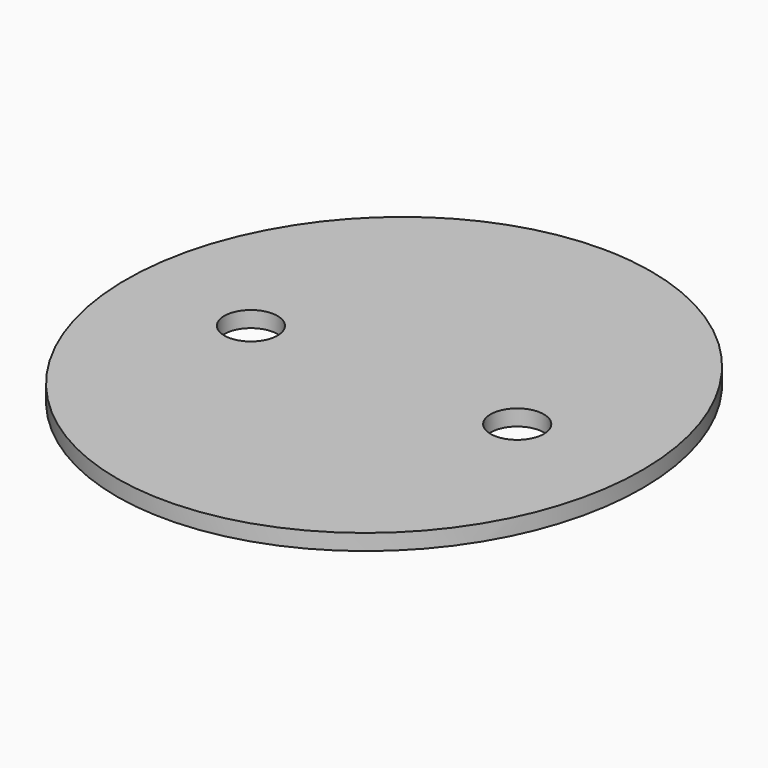
from build123d import *

# Parameters (mm, degrees)
F1_DEPTH = 6
F3_D     = 20


with BuildPart() as f1:
    # F0 (on Top) → F1 (new body)
    with BuildSketch(Plane.XY):
        with BuildLine():
            add(Edge.make_bspline(
                [(0, 102.5), (-167.835723, 102.5), (-83.917862, -51.25), (0, -205), (83.917862, -51.25), (167.835723, 102.5), (0, 102.5)],
                knots=[0, 0, 0, 2.094395, 2.094395, 4.18879, 4.18879, 6.283185, 6.283185, 6.283185], degree=2, weights=[1, 0.5, 1, 0.5, 1, 0.5, 1]))
        make_face()
    extrude(amount=F1_DEPTH)

    # F3 (through all)
    with Locations(Plane.XY.offset(6)):
        with Locations((-50, 0), (50, 0)):
            Hole(F3_D / 2)


solid = f1.part
